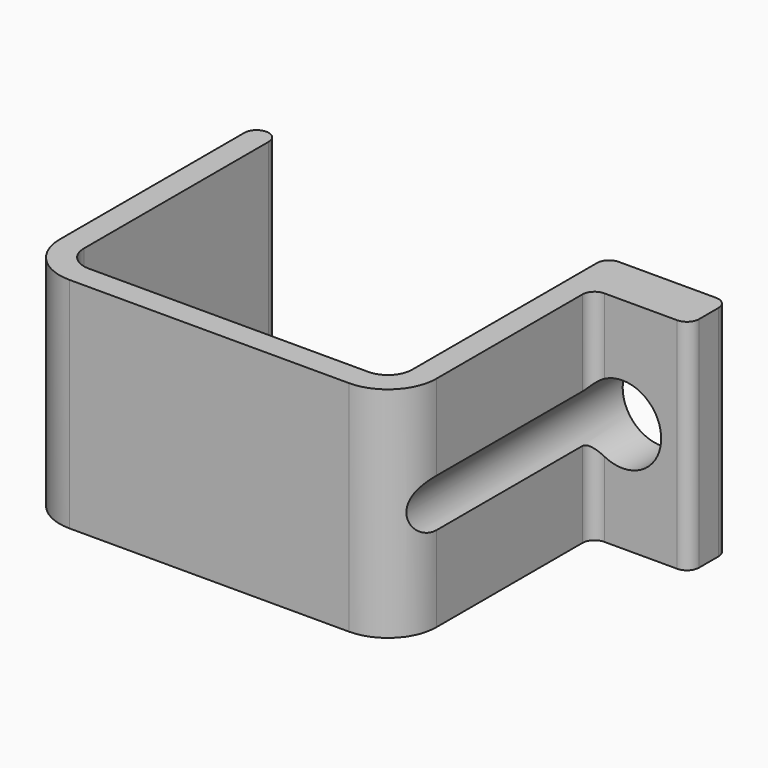
from build123d import *

# Parameters (mm, degrees)
F1_DEPTH = 18
F2_R     = 3.184112
F3_DEPTH = 25


with BuildPart() as f1:
    # F0 (on Top) → F1 (new body)
    with BuildSketch(Plane.XY):
        with BuildLine():
            Line((-15.246555, -6.827714), (-15.246555, 12.172286))
            ThreePointArc((-15.246555, 12.172286), (-15.539449, 12.879393), (-16.246555, 13.172286))
            ThreePointArc((-16.246555, 13.172286), (-16.953662, 12.879393), (-17.246555, 12.172286))
            Line((-17.246555, 12.172286), (-17.246555, -6.827714))
            ThreePointArc((-17.246555, -6.827714), (-16.074982, -9.656141), (-13.246555, -10.827714))
            Line((-13.246555, -10.827714), (9.753445, -10.827714))
            ThreePointArc((9.753445, -10.827714), (12.581872, -9.656141), (13.753445, -6.827714))
            Line((13.753445, -6.827714), (13.753445, 8.172286))
            ThreePointArc((13.753445, 8.172286), (14.046338, 8.879393), (14.753445, 9.172286))
            Line((14.753445, 9.172286), (20.753445, 9.172286))
            ThreePointArc((20.753445, 9.172286), (21.460551, 9.465179), (21.753445, 10.172286))
            Line((21.753445, 10.172286), (21.753445, 12.172286))
            ThreePointArc((21.753445, 12.172286), (21.460551, 12.879393), (20.753445, 13.172286))
            Line((20.753445, 13.172286), (12.753445, 13.172286))
            ThreePointArc((12.753445, 13.172286), (12.046338, 12.879393), (11.753445, 12.172286))
            Line((11.753445, 12.172286), (11.753445, -6.827714))
            ThreePointArc((11.753445, -6.827714), (11.167658, -8.241927), (9.753445, -8.827714))
            Line((9.753445, -8.827714), (-13.246555, -8.827714))
            ThreePointArc((-13.246555, -8.827714), (-14.660769, -8.241927), (-15.246555, -6.827714))
        make_face()
    extrude(amount=F1_DEPTH)

    # F2 (on face) → F3 (cut)
    with BuildSketch(Plane(origin=(0, 13.172286, 0), x_dir=(-1, 0, 0), z_dir=(0, 1, 0))):
        with Locations((-16.252154, 9)):
            Circle(F2_R)
    extrude(amount=-F3_DEPTH, mode=Mode.SUBTRACT)


solid = f1.part
